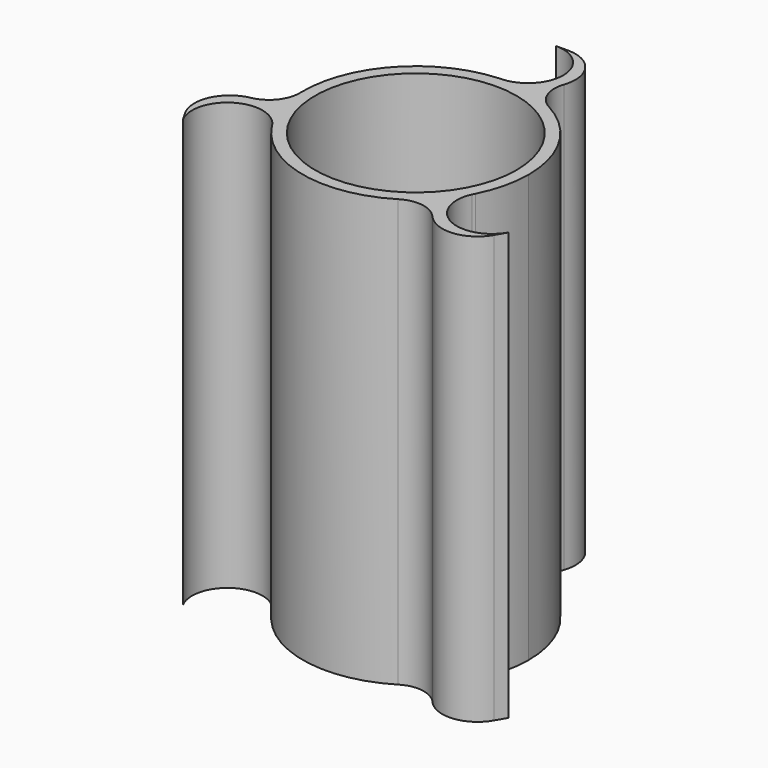
from build123d import *

# Parameters (mm, degrees)
F0_R     = 16.5
F1_DEPTH = 70
F2_R     = 5


with BuildPart() as f1:
    # F0 (on Top) → F1 (new body)
    with BuildSketch(Plane.XY):
        with BuildLine():
            ThreePointArc((16.498047, -8.370451), (17.992552, -4.303262), (18.5, 0))
            ThreePointArc((18.5, 0), (13.430376, 12.723011), (1, 18.472953))
            ThreePointArc((1, 18.472953), (0.237602, 18.498474), (-0.525201, 18.492543))
            ThreePointArc((-0.525201, 18.492543), (-0.762398, 18.477853), (-1, 18.472953))
            ThreePointArc((-1, 18.472953), (-16.02147, 9.25), (-16.498047, -8.370451))
            ThreePointArc((-16.498047, -8.370451), (-16.138949, -9.043468), (-15.752412, -9.701109))
            ThreePointArc((-15.752412, -9.701109), (-15.621091, -9.899183), (-15.498047, -10.102502))
            ThreePointArc((-15.498047, -10.102502), (0, -18.5), (15.498047, -10.102502))
            ThreePointArc((15.498047, -10.102502), (15.901348, -9.455006), (16.277613, -8.791434))
            ThreePointArc((16.277613, -8.791434), (16.383489, -8.57867), (16.498047, -8.370451))
        make_face()
        Circle(F0_R, mode=Mode.SUBTRACT)
        with BuildLine():
            ThreePointArc((-0.525201, 18.492543), (0.237602, 18.498474), (1, 18.472953))
            ThreePointArc((1, 18.472953), (6.763523, 24.236477), (1, 30))
            Line((1, 30), (-1, 30))
            ThreePointArc((-1, 30), (4.758624, 24.474078), (-0.525201, 18.492543))
        make_face()
        with BuildLine():
            ThreePointArc((16.277613, -8.791434), (16.389182, -8.581651), (16.498047, -8.370451))
            ThreePointArc((16.498047, -8.370451), (16.383489, -8.57867), (16.277613, -8.791434))
        make_face()
        with BuildLine():
            ThreePointArc((-1, 18.472953), (-0.762398, 18.477853), (-0.525201, 18.492543))
            ThreePointArc((-0.525201, 18.492543), (-0.762663, 18.484273), (-1, 18.472953))
        make_face()
        with BuildLine():
            ThreePointArc((26.480762, -14.133975), (18.815862, -16.358128), (16.277613, -8.791434))
            ThreePointArc((16.277613, -8.791434), (15.901348, -9.455006), (15.498047, -10.102502))
            ThreePointArc((15.498047, -10.102502), (17.607643, -17.975621), (25.480762, -15.866025))
            Line((25.480762, -15.866025), (26.480762, -14.133975))
        make_face()
        with BuildLine():
            ThreePointArc((-15.752412, -9.701109), (-16.138949, -9.043468), (-16.498047, -8.370451))
            ThreePointArc((-16.498047, -8.370451), (-24.371166, -6.260855), (-26.480762, -14.133975))
            Line((-26.480762, -14.133975), (-25.480762, -15.866025))
            ThreePointArc((-25.480762, -15.866025), (-23.574485, -8.11595), (-15.752412, -9.701109))
        make_face()
        with BuildLine():
            ThreePointArc((-15.752412, -9.701109), (-15.626518, -9.902622), (-15.498047, -10.102502))
            ThreePointArc((-15.498047, -10.102502), (-15.621091, -9.899183), (-15.752412, -9.701109))
        make_face()
    extrude(amount=F1_DEPTH)

    # F2
    f2_edges = [f1.edges().sort_by_distance(p)[0] for p in [
        (1, 18.472953, 35),
        (15.498047, -10.102502, 35),
        (-16.498047, -8.370451, 35),
    ]]
    fillet(f2_edges, radius=F2_R)


solid = f1.part
